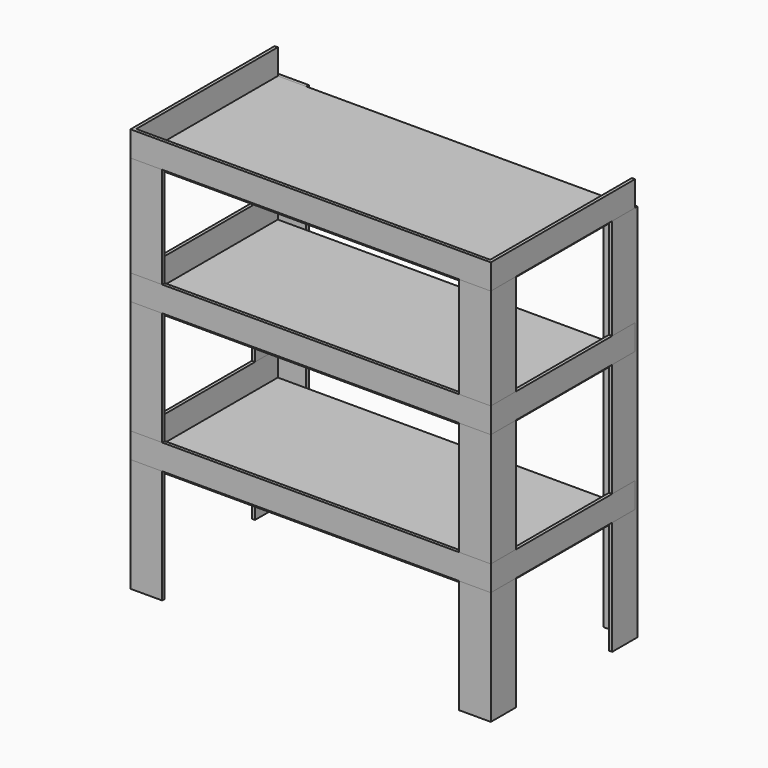
from build123d import *

# Parameters (mm, degrees)
F4_DEPTH  = 762
F5_W      = 711.2
F5_H      = 355.6
F6_DEPTH  = 6.35
F7_W      = 711.2
F7_H      = 355.6
F8_DEPTH  = 6.35
F9_W      = 711.2
F9_H      = 355.6
F10_DEPTH = 6.35
F12_DEPTH = 50.8
F14_DEPTH = 50.8
F16_DEPTH = 50.8


with BuildPart() as f4:
    # F3 (on offset) → F4 (new body)
    with BuildSketch(Plane.XY.offset(685.8)):
        Polygon((-361.95, 120.65), (-355.6, 120.65), (-355.6, 177.8), (-298.45, 177.8), (-298.45, 184.15), (-361.95, 184.15), align=None)
        Polygon((-298.45, -177.8), (-355.6, -177.8), (-355.6, -120.65), (-361.95, -120.65), (-361.95, -184.15), (-298.45, -184.15), align=None)
        Polygon((298.45, -184.15), (361.95, -184.15), (361.95, -120.65), (355.6, -120.65), (355.6, -177.8), (298.45, -177.8), align=None)
        Polygon((355.6, 177.8), (355.6, 120.65), (361.95, 120.65), (361.95, 184.15), (298.45, 184.15), (298.45, 177.8), align=None)
    extrude(amount=-F4_DEPTH)


with BuildPart() as f6:
    # F5 (on offset) → F6 (new body)
    with BuildSketch(Plane.XY.offset(152.4)):
        Rectangle(F5_W, F5_H)
    extrude(amount=-F6_DEPTH)


with BuildPart() as f8:
    # F7 (on offset) → F8 (new body)
    with BuildSketch(Plane.XY.offset(431.8)):
        Rectangle(F7_W, F7_H)
    extrude(amount=-F8_DEPTH)


with BuildPart() as f10:
    # F9 (on offset) → F10 (new body)
    with BuildSketch(Plane.XY.offset(685.8)):
        Rectangle(F9_W, F9_H)
    extrude(amount=-F10_DEPTH)


with BuildPart() as f12:
    # F11 (on offset) → F12 (new body)
    with BuildSketch(Plane.XY.offset(685.8)):
        Polygon((-355.6, -177.8), (-355.6, 177.8), (-361.95, 177.8), (-361.95, -184.15), (361.95, -184.15), (361.95, 177.8), (355.6, 177.8), (355.6, -177.8), align=None)
    extrude(amount=F12_DEPTH)


with BuildPart() as f14:
    # F13 (on offset) → F14 (new body)
    with BuildSketch(Plane.XY.offset(431.8)):
        Polygon((-355.6, -177.8), (-355.6, 177.8), (-361.95, 177.8), (-361.95, -184.15), (361.95, -184.15), (361.95, 177.8), (355.6, 177.8), (355.6, -177.8), align=None)
    extrude(amount=F14_DEPTH)


with BuildPart() as f16:
    # F15 (on offset) → F16 (new body)
    with BuildSketch(Plane.XY.offset(152.4)):
        Polygon((-355.6, -177.8), (-355.6, 177.8), (-361.95, 177.8), (-361.95, -184.15), (361.95, -184.15), (361.95, 177.8), (355.6, 177.8), (355.6, -177.8), align=None)
    extrude(amount=F16_DEPTH)


solid = Compound([f4.part, f6.part, f8.part, f10.part, f12.part, f14.part, f16.part])
